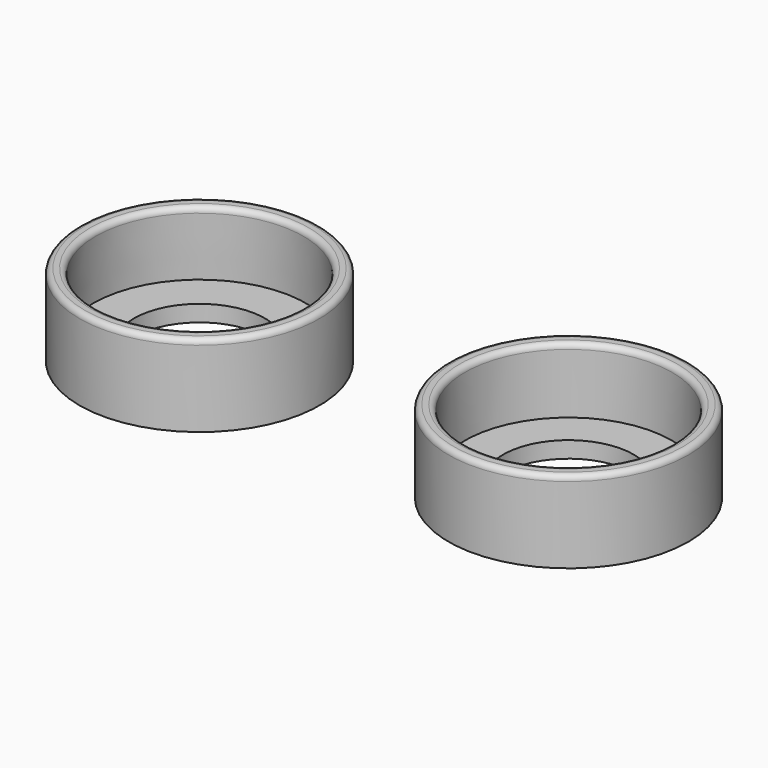
from build123d import *

# Parameters (mm, degrees)
F0_R     = 11
F0_R_2   = 9.5
F1_DEPTH = 7.5
F0_R_3   = 6
F2_DEPTH = 1.5
F3_R     = 0.5
F6_R     = 0.5


with BuildPart() as f1:
    # F0 (on Top) → F1 (new body)
    with BuildSketch(Plane.XY):
        Circle(F0_R)
        Circle(F0_R_2, mode=Mode.SUBTRACT)
    extrude(amount=F1_DEPTH)

    # F0 (on Top) → F2 (join)
    with BuildSketch(Plane.XY):
        Circle(F0_R_2)
        Circle(F0_R_3, mode=Mode.SUBTRACT)
    extrude(amount=F2_DEPTH)

    # F3
    f3_edges = [f1.edges().sort_by_distance(p)[0] for p in [
        (-11, 0, 7.5),
        (-9.5, 0, 7.5),
    ]]
    fillet(f3_edges, radius=F3_R)


with BuildPart() as f5:
    # F4 (on Front) → F5 (revolve)
    with BuildSketch(Plane.XZ):
        Polygon((-44.8105111718, 1.5), (-43.5605111718, 1.5), (-43.3105111718, 7.5), (-44.8105111718, 7.5), align=None)
        Polygon((-39.8105111718, 0), (-39.8105111718, 1.5), (-43.5605111718, 1.5), (-44.8105111718, 1.5), (-44.8105111718, 0), align=None)
    revolve(axis=Axis((-33.8105111718, 0, 3.75), (0, 0, 1)))

    # F6
    f6_edges = [f5.edges().sort_by_distance(p)[0] for p in [
        (-22.810511, 0, 7.5),
        (-24.310511, 0, 7.5),
    ]]
    fillet(f6_edges, radius=F6_R)


solid = Compound([f1.part, f5.part])
